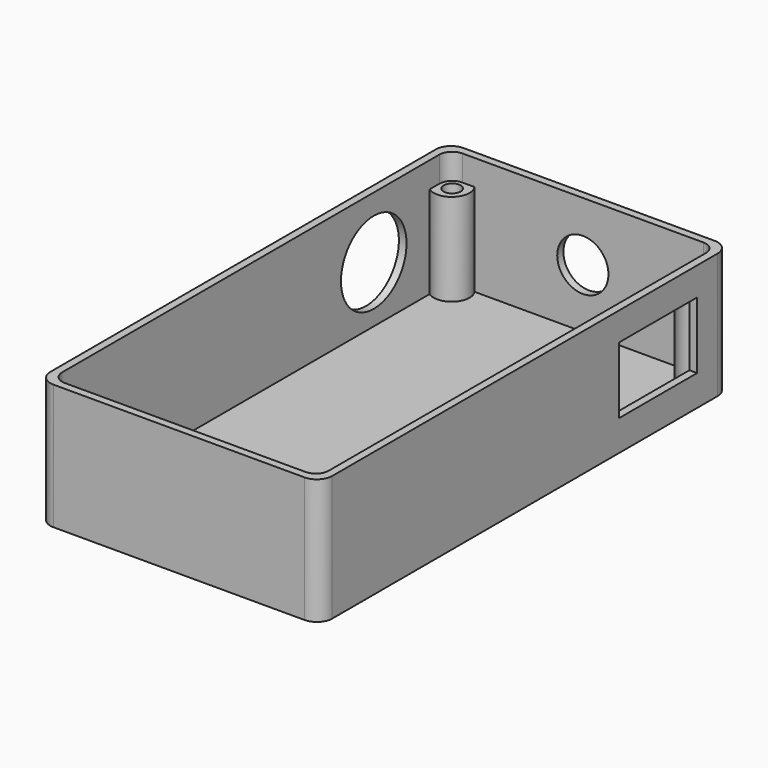
from build123d import *

# Parameters (mm, degrees)
F0_W      = 55
F0_H      = 100
F1_DEPTH  = 24.5
F3_DEPTH  = 23
F4_R      = 5
F5_DEPTH  = 2
F6_R      = 8
F7_DEPTH  = 2
F8_R      = 3.5
F9_DEPTH  = 18
F10_R     = 1.65
F11_DEPTH = 2
F12_R     = 3
F13_R     = 2.5
F14_W     = 19
F14_H     = 13
F15_DEPTH = 2


with BuildPart() as f1:
    # F0 (on Top) → F1 (new body)
    with BuildSketch(Plane.XY):
        with Locations((27.5, 50)):
            Rectangle(F0_W, F0_H)
    extrude(amount=F1_DEPTH)

    # F2 (on face) → F3 (cut)
    with BuildSketch(Plane.XY.offset(24.5)):
        Polygon((27.5, 98.5), (1.5, 98.5), (1.5, 50), (1.5, 1.5), (27.5, 1.5), (53.5, 1.5), (53.5, 50), (53.5, 98.5), align=None)
    extrude(amount=-F3_DEPTH, mode=Mode.SUBTRACT)

    # F4 (on face) → F5 (cut)
    with BuildSketch(Plane(origin=(0, 100, 0), x_dir=(-1, 0, 0), z_dir=(0, 1, 0))):
        with Locations((-27.5, 13)):
            Circle(F4_R)
    extrude(amount=-F5_DEPTH, mode=Mode.SUBTRACT)

    # F6 (on face) → F7 (cut)
    with BuildSketch(Plane(origin=(0, 0, 0), x_dir=(0, -1, 0), z_dir=(-1, 0, 0))):
        with Locations((-80, 12.5)):
            Circle(F6_R)
    extrude(amount=-F7_DEPTH, mode=Mode.SUBTRACT)

    # F8 (on face) → F9 (join)
    with BuildSketch(Plane.XY.offset(1.5)):
        with Locations((3.5, 96.5)):
            Circle(F8_R)
        with Locations((51.5, 96.5)):
            Circle(F8_R)
        with Locations((51.5, 3.5)):
            Circle(F8_R)
        with Locations((3.5, 3.5)):
            Circle(F8_R)
    extrude(amount=F9_DEPTH)

    # F10 (on face) → F11 (cut)
    with BuildSketch(Plane.XY.offset(19.5)):
        with Locations((4, 96)):
            Circle(F10_R)
        with Locations((4, 4)):
            Circle(F10_R)
        with Locations((51, 96)):
            Circle(F10_R)
        with Locations((51, 4)):
            Circle(F10_R)
    extrude(amount=-F11_DEPTH, mode=Mode.SUBTRACT)

    # F12
    f12_edges = [f1.edges().sort_by_distance(p)[0] for p in [
        (0, 100, 12.25),
        (55, 100, 12.25),
        (0, 0, 12.25),
        (55, 0, 12.25),
    ]]
    fillet(f12_edges, radius=F12_R)

    # F13
    f13_edges = [f1.edges().sort_by_distance(p)[0] for p in [
        (1.5, 98.5, 22),
        (53.5, 98.5, 22),
        (1.5, 1.5, 22),
        (53.5, 1.5, 22),
    ]]
    fillet(f13_edges, radius=F13_R)

    # F14 (on face) → F15 (cut)
    with BuildSketch(Plane.YZ.offset(55)):
        with Locations((82.5, 12.5)):
            Rectangle(F14_W, F14_H)
    extrude(amount=-F15_DEPTH, mode=Mode.SUBTRACT)


solid = f1.part
